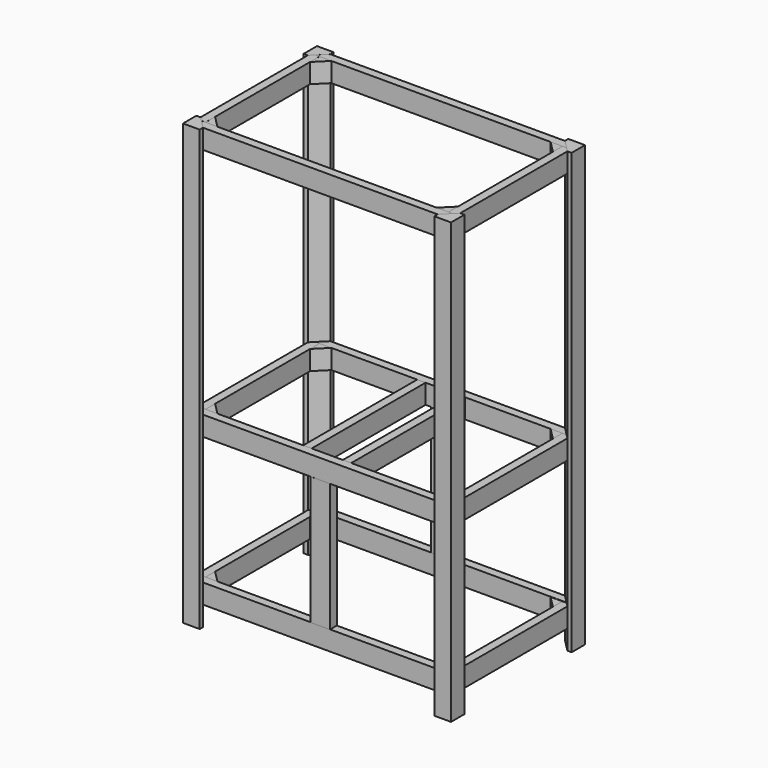
from build123d import *

# Parameters (mm, degrees)
PAD002_DEPTH = 2000
PAD003_DEPTH = 2000
PAD004_DEPTH = 2000
PAD005_DEPTH = 2000
PAD009_DEPTH = 88.9
PAD010_DEPTH = 88.9
PAD013_DEPTH = 88.9
PAD015_DEPTH = 88.9
PAD018_DEPTH = 88.9
PAD020_DEPTH = 88.9
PAD021_DEPTH = 88.9
SKETCH_W     = 88.9
SKETCH_H     = 38.1
PAD_DEPTH    = 584.2
SKETCH021_W  = 88.9
SKETCH021_H  = 38.1
PAD022_DEPTH = 584.2
PAD023_DEPTH = 88.9
SKETCH025_W  = 38.1
SKETCH025_H  = 647.7
PAD026_DEPTH = 88.9
SKETCH026_W  = 38.1
SKETCH026_H  = 647.7
PAD027_DEPTH = 88.9
PAD029_DEPTH = 88.9
PAD030_DEPTH = 88.9
PAD031_DEPTH = 88.9
PAD032_DEPTH = 88.9
PAD033_DEPTH = 88.9
PAD034_DEPTH = 89
PAD035_DEPTH = 88.9
PAD037_DEPTH = 88.9
PAD038_DEPTH = 88.9
PAD039_DEPTH = 88.9
PAD041_DEPTH = 88.9
PAD042_DEPTH = 88.9
PAD043_DEPTH = 88.9
PAD045_DEPTH = 88.9
PAD046_DEPTH = 88.9
PAD047_DEPTH = 88.9


with BuildPart() as back_left_corner:
    # Sketch002 → Pad002 (new body)
    with BuildSketch(Plane.XY):
        Polygon((-533.4, 762), (-533.4, 742.95), (-590.55, 685.8), (-609.6, 685.8), (-609.6, 762), align=None)
    extrude(amount=PAD002_DEPTH)


with BuildPart() as front_left_corner:
    # Sketch003 → Pad003 (new body)
    with BuildSketch(Plane.XY):
        Polygon((-609.6, 76.2), (-609.6, 0), (-533.4, 0), (-533.4, 19.05), (-590.55, 76.2), align=None)
    extrude(amount=PAD003_DEPTH)


with BuildPart() as front_right_corner:
    # Sketch004 → Pad004 (new body)
    with BuildSketch(Plane.XY):
        Polygon((533.4, 19.05), (533.4, 0), (609.6, 0), (609.6, 76.2), (590.55, 76.2), align=None)
    extrude(amount=PAD004_DEPTH)


with BuildPart() as back_right_corner:
    # Sketch005 → Pad005 (new body)
    with BuildSketch(Plane.XY):
        Polygon((533.4, 762), (609.6, 762), (609.6, 685.8), (590.55, 685.8), (533.4, 742.95), align=None)
    extrude(amount=PAD005_DEPTH)


with BuildPart() as mid_back:
    # Sketch009 → Pad009 (new body)
    with BuildSketch(Plane.XY.offset(762)):
        Polygon((-533.4, 742.95), (-571.5, 704.85), (571.5, 704.85), (533.4, 742.95), align=None)
    extrude(amount=PAD009_DEPTH)


with BuildPart() as mid_front:
    # Sketch010 → Pad010 (new body)
    with BuildSketch(Plane.XY.offset(762)):
        Polygon((-571.5, 57.15), (-533.4, 19.05), (533.4, 19.05), (571.5, 57.15), align=None)
    extrude(amount=PAD010_DEPTH)


with BuildPart() as mid_left_side:
    # Sketch012 → Pad013 (new body)
    with BuildSketch(Plane.XY.offset(762)):
        Polygon((-590.55, 685.8), (-590.55, 76.2), (-571.5, 57.15), (-552.45, 57.15), (-552.45, 704.85), (-571.5, 704.85), align=None)
    extrude(amount=PAD013_DEPTH)


with BuildPart() as mid_right_side:
    # Sketch014 → Pad015 (new body)
    with BuildSketch(Plane.XY.offset(762)):
        Polygon((552.45, 704.85), (571.5, 704.85), (590.55, 685.8), (590.55, 76.2), (571.5, 57.15), (552.45, 57.15), align=None)
    extrude(amount=PAD015_DEPTH)


with BuildPart() as lower_back:
    # Sketch017 → Pad018 (new body)
    with BuildSketch(Plane.XY.offset(90)):
        Polygon((-533.4, 742.95), (-571.5, 704.85), (571.5, 704.85), (533.4, 742.95), align=None)
    extrude(amount=PAD018_DEPTH)


with BuildPart() as lower_left_side:
    # Sketch019 → Pad020 (new body)
    with BuildSketch(Plane.XY.offset(90)):
        Polygon((-590.55, 685.8), (-590.55, 76.2), (-571.5, 57.15), (-552.45, 57.15), (-552.45, 704.85), (-571.5, 704.85), align=None)
    extrude(amount=PAD020_DEPTH)


with BuildPart() as lower_right_side:
    # Sketch020 → Pad021 (new body)
    with BuildSketch(Plane.XY.offset(89)):
        Polygon((552.45, 704.85), (571.5, 704.85), (590.55, 685.8), (590.55, 76.2), (571.5, 57.15), (552.45, 57.15), align=None)
    extrude(amount=PAD021_DEPTH)


with BuildPart() as front_brace:
    # Sketch → Pad (new body)
    with BuildSketch(Plane.XY.offset(177.8)):
        with Locations((0, 38.05)):
            Rectangle(SKETCH_W, SKETCH_H)
    extrude(amount=PAD_DEPTH)


with BuildPart() as back_brace:
    # Sketch021 → Pad022 (new body)
    with BuildSketch(Plane.XY.offset(177.8)):
        with Locations((0, 723.9)):
            Rectangle(SKETCH021_W, SKETCH021_H)
    extrude(amount=PAD022_DEPTH)


with BuildPart() as lower_front:
    # Sketch022 → Pad023 (new body)
    with BuildSketch(Plane.XY.offset(90)):
        Polygon((-571.5, 57.15), (-533.4, 19.05), (533.4, 19.05), (571.5, 57.15), align=None)
    extrude(amount=PAD023_DEPTH)


with BuildPart() as left_mill_mount:
    # Sketch025 → Pad026 (new body)
    with BuildSketch(Plane.XY.offset(762)):
        with Locations((-89.05, 381)):
            Rectangle(SKETCH025_W, SKETCH025_H)
    extrude(amount=PAD026_DEPTH)


with BuildPart() as right_mill_mount:
    # Sketch026 → Pad027 (new body)
    with BuildSketch(Plane.XY.offset(762)):
        with Locations((90.95, 381)):
            Rectangle(SKETCH026_W, SKETCH026_H)
    extrude(amount=PAD027_DEPTH)


with BuildPart() as left_front_corner_brace:
    # Sketch028 → Pad029 (new body)
    with BuildSketch(Plane.XY.offset(90)):
        Polygon((-552.45, 111.031537), (-552.45, 57.15), (-498.568463, 57.15), align=None)
    extrude(amount=PAD029_DEPTH)


with BuildPart() as mid_left_front_corner_brace:
    # Sketch029 → Pad030 (new body)
    with BuildSketch(Plane.XY.offset(762)):
        Polygon((-552.45, 111.031537), (-552.45, 57.15), (-498.568463, 57.15), align=None)
    extrude(amount=PAD030_DEPTH)


with BuildPart() as top_left_front_corner_brace:
    # Sketch030 → Pad031 (new body)
    with BuildSketch(Plane.XY.offset(1911)):
        Polygon((-552.45, 111.031537), (-552.45, 57.15), (-498.568463, 57.15), align=None)
    extrude(amount=PAD031_DEPTH)


with BuildPart() as top_front:
    # Sketch031 → Pad032 (new body)
    with BuildSketch(Plane.XY.offset(1911)):
        Polygon((-571.5, 57.15), (-533.4, 19.05), (533.4, 19.05), (571.5, 57.15), align=None)
    extrude(amount=PAD032_DEPTH)


with BuildPart() as top_back:
    # Sketch032 → Pad033 (new body)
    with BuildSketch(Plane.XY.offset(1911)):
        Polygon((-533.4, 742.95), (-571.5, 704.85), (571.5, 704.85), (533.4, 742.95), align=None)
    extrude(amount=PAD033_DEPTH)


with BuildPart() as top_left:
    # Sketch033 → Pad034 (new body)
    with BuildSketch(Plane.XY.offset(1911)):
        Polygon((-590.55, 685.8), (-590.55, 76.2), (-571.5, 57.15), (-552.45, 57.15), (-552.45, 704.85), (-571.5, 704.85), align=None)
    extrude(amount=PAD034_DEPTH)


with BuildPart() as top_right_side:
    # Sketch034 → Pad035 (new body)
    with BuildSketch(Plane.XY.offset(1911)):
        Polygon((552.45, 704.85), (571.5, 704.85), (590.55, 685.8), (590.55, 76.2), (571.5, 57.15), (552.45, 57.15), align=None)
    extrude(amount=PAD035_DEPTH)


with BuildPart() as top_right_corner_brace:
    # Sketch036 → Pad037 (new body)
    with BuildSketch(Plane.XY.offset(1911)):
        Polygon((552.45, 111.031537), (552.45, 57.15), (498.568463, 57.15), align=None)
    extrude(amount=PAD037_DEPTH)


with BuildPart() as mid_right_front_corner_brace:
    # Sketch037 → Pad038 (new body)
    with BuildSketch(Plane.XY.offset(762)):
        Polygon((552.45, 111.031537), (552.45, 57.15), (498.568463, 57.15), align=None)
    extrude(amount=PAD038_DEPTH)


with BuildPart() as lower_right_front_corner_brace:
    # Sketch038 → Pad039 (new body)
    with BuildSketch(Plane.XY.offset(88.9)):
        Polygon((552.45, 111.031537), (552.45, 57.15), (498.568463, 57.15), align=None)
    extrude(amount=PAD039_DEPTH)


with BuildPart() as lower_back_left_corner_brace:
    # Sketch040 → Pad041 (new body)
    with BuildSketch(Plane.XY.offset(88.9)):
        Polygon((-552.45, 704.85), (-552.45, 650.968463), (-498.568463, 704.85), align=None)
    extrude(amount=PAD041_DEPTH)


with BuildPart() as mid_back_left_corner_brace:
    # Sketch041 → Pad042 (new body)
    with BuildSketch(Plane.XY.offset(762)):
        Polygon((-552.45, 704.85), (-552.45, 650.968463), (-498.568463, 704.85), align=None)
    extrude(amount=PAD042_DEPTH)


with BuildPart() as top_back_left_corner_brace:
    # Sketch042 → Pad043 (new body)
    with BuildSketch(Plane.XY.offset(1911)):
        Polygon((-552.45, 704.85), (-552.45, 650.968463), (-498.568463, 704.85), align=None)
    extrude(amount=PAD043_DEPTH)


with BuildPart() as lower_back_right_corner_brace:
    # Sketch044 → Pad045 (new body)
    with BuildSketch(Plane.XY.offset(88.9)):
        Polygon((498.568463, 704.85), (552.45, 704.85), (552.45, 650.968463), align=None)
    extrude(amount=PAD045_DEPTH)


with BuildPart() as mid_back_right_corner_brace:
    # Sketch045 → Pad046 (new body)
    with BuildSketch(Plane.XY.offset(762)):
        Polygon((498.568463, 704.85), (552.45, 704.85), (552.45, 650.968463), align=None)
    extrude(amount=PAD046_DEPTH)


with BuildPart() as top_back_right_corner_brace:
    # Sketch046 → Pad047 (new body)
    with BuildSketch(Plane.XY.offset(1911)):
        Polygon((498.568463, 704.85), (552.45, 704.85), (552.45, 650.968463), align=None)
    extrude(amount=PAD047_DEPTH)


solid = Compound([back_left_corner.part, front_left_corner.part, front_right_corner.part, back_right_corner.part, mid_back.part, mid_front.part, mid_left_side.part, mid_right_side.part, lower_back.part, lower_left_side.part, lower_right_side.part, front_brace.part, back_brace.part, lower_front.part, left_mill_mount.part, right_mill_mount.part, left_front_corner_brace.part, mid_left_front_corner_brace.part, top_left_front_corner_brace.part, top_front.part, top_back.part, top_left.part, top_right_side.part, top_right_corner_brace.part, mid_right_front_corner_brace.part, lower_right_front_corner_brace.part, lower_back_left_corner_brace.part, mid_back_left_corner_brace.part, top_back_left_corner_brace.part, lower_back_right_corner_brace.part, mid_back_right_corner_brace.part, top_back_right_corner_brace.part])
